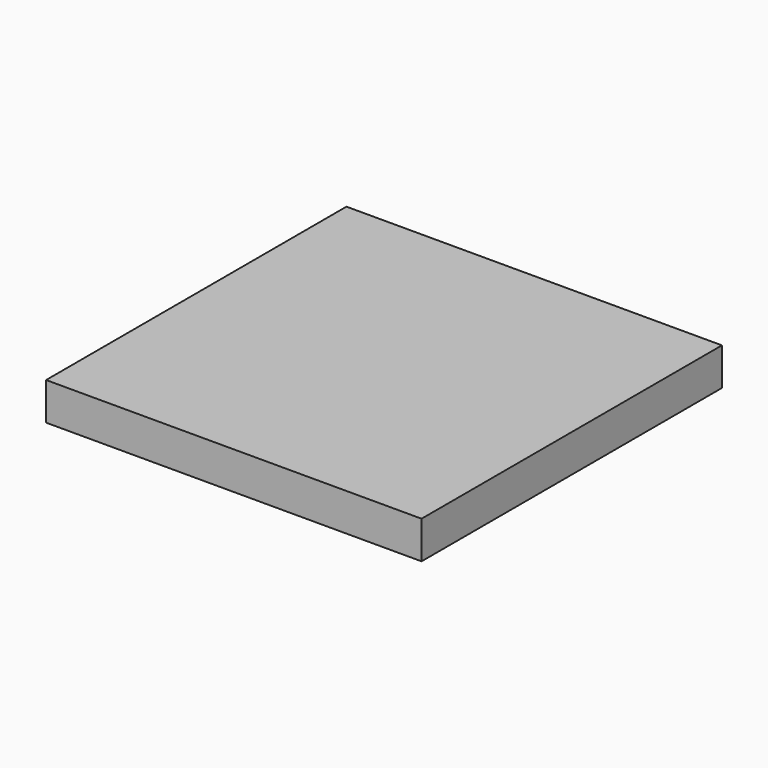
from build123d import *

# Parameters (mm, degrees)
F0_W     = 158.75
F0_H     = 158.75
F1_DEPTH = 15.875
F2_W     = 142.875
F2_H     = 142.875
F3_DEPTH = 3.556


with BuildPart() as f1:
    # F0 (on Top) → F1 (new body)
    with BuildSketch(Plane.XY):
        Rectangle(F0_W, F0_H)
    extrude(amount=-F1_DEPTH)

    # F2 (on face) → F3 (join)
    with BuildSketch(Plane.XY):
        Rectangle(F2_W, F2_H)
    extrude(amount=-F3_DEPTH)


solid = f1.part
